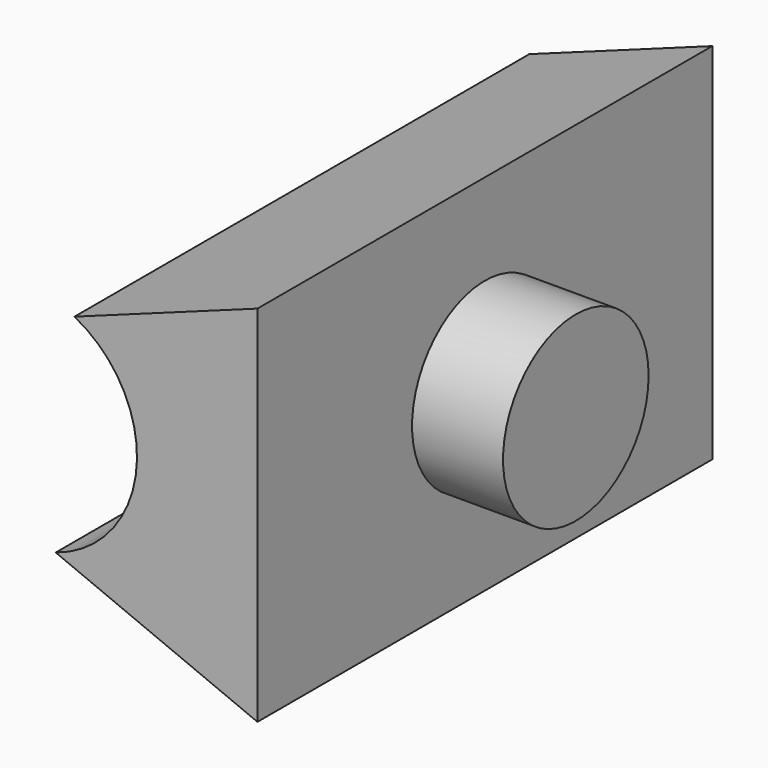
from build123d import *

# Parameters (mm, degrees)
F1_DEPTH = 19.84375
F2_R     = 3.175
F3_DEPTH = 3.175


with BuildPart() as f1:
    # F0 (on Front) → F1 (new body)
    with BuildSketch(Plane.XZ):
        with BuildLine():
            Line((-7.039962, 2.916048), (0, 0))
            Line((0, 0), (0, 12.7))
            Line((0, 12.7), (-6.386466, 10.375517))
            ThreePointArc((-6.386466, 10.375517), (-4.219158, 6.427287), (-7.039962, 2.916048))
        make_face()
    extrude(amount=-F1_DEPTH)

    # F2 (on face) → F3 (join)
    with BuildSketch(Plane.YZ):
        with Locations((9.921875, 6.35)):
            Circle(F2_R)
    extrude(amount=F3_DEPTH)


solid = f1.part
